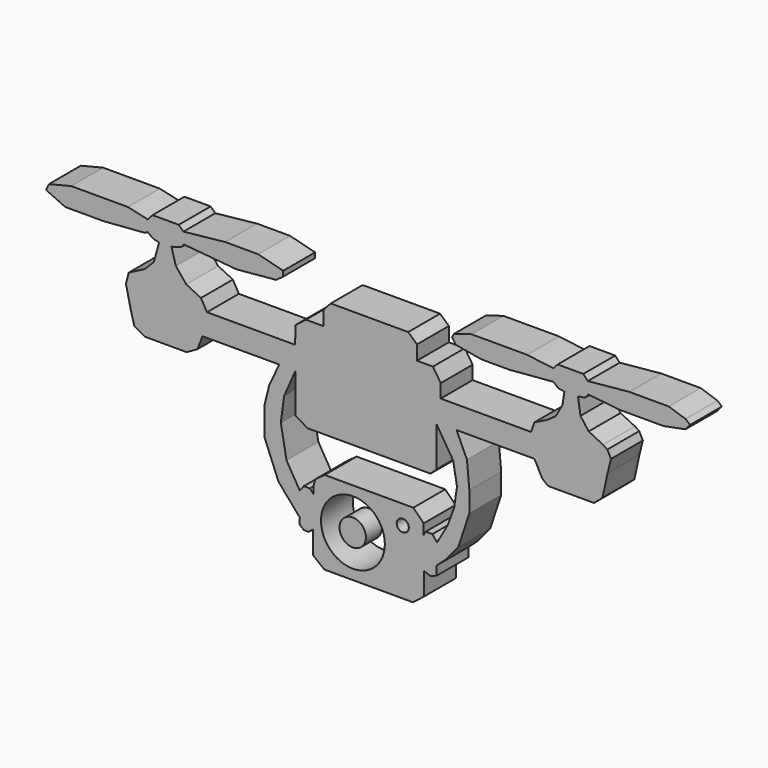
from build123d import *

# Parameters (mm, degrees)
F0_R     = 4.069971
F0_R_2   = 0.770086
F1_DEPTH = 5.08
F2_R     = 1.679723
F3_DEPTH = 2.54


with BuildPart() as f1:
    # F0 (on Front) → F1 (new body)
    with BuildSketch(Plane.XZ):
        Polygon((-9.318665, 22.670845), (-9.353687, 25.614712), (-20.578111, 25.614712), (-21.153722, 22.736656), (-11.368327, 22.736656), align=None)
        Polygon((-9.283642, 27.860334), (-9.353687, 25.614712), (-9.318665, 22.670845), (-9.318665, 17.684866), (-7.757322, 16.769072), (7.912902, 16.769072), (8.691694, 17.516764), (8.691694, 22.543664), (9.209785, 25.614712), (9.209785, 27.351562), (8.218166, 28.877882), (6.183073, 28.877882), (6.183073, 30.709466), (5.06377, 31.727012), (-4.806436, 31.727012), (-5.722228, 30.709466), (-5.722228, 28.877882), (-7.960832, 28.877882), align=None)
        Polygon((-21.153722, 22.736656), (-20.578111, 25.614712), (-21.340223, 26.965873), (-23.222685, 27.881665), (-24.545496, 29.50974), (-25.105147, 31.493958), (-23.884091, 31.838358), (-23.52795, 32.257117), (-16.81214, 31.646591), (-11.775281, 32.104485), (-10.859489, 32.765891), (-10.859489, 33.427294), (-14.064763, 34.241334), (-18.287582, 34.241334), (-23.578826, 33.681683), (-24.175683, 34.248885), (-27.521426, 34.248885), (-28.136475, 33.570868), (-26.377082, 33.172909), (-26.334074, 32.766288), (-28.136475, 32.148954), (-27.490808, 31.666695), (-26.682345, 31.443078), (-27.34375, 29.051844), (-28.492769, 27.881665), (-30.549023, 26.813241), (-30.905165, 25.439551), (-30.294636, 22.736656), (-29.83674, 21.064099), (-28.492769, 20.290306), (-23.168363, 20.290306), (-21.798119, 21.064099), align=None)
        Polygon((-10.744238, 19.428659), (-9.318665, 22.670845), (-11.368327, 22.736656), (-12.641548, 20.025223), (-13.22489, 17.684866), (-13.22489, 13.922821), (-11.470282, 9.566554), (-8.747616, 6.420361), (-8.747616, 9.445547), (-10.44172, 12.289221), (-11.167764, 16.282465), align=None)
        Polygon((-8.240691, 10.114433), (-8.747616, 9.445547), (-8.747616, 6.420361), (-8.816303, 5.67781), (-8.240691, 5.185759), (-7.593128, 5.185759), (-7.045039, 5.67781), (-6.981541, 9.574797), (-7.449226, 10.114433), align=None)
        Polygon((11.224424, 22.736656), (8.691694, 22.543664), (10.795082, 19.186644), (11.279112, 16.403474), (10.91609, 13.922821), (10.069037, 11.623681), (8.737955, 9.324539), (8.155205, 10.066222), (7.30082, 10.066222), (7.032725, 9.603148), (7.098865, 5.577749), (7.901572, 5.276848), (8.691694, 5.577749), (8.691694, 6.727319), (9.905946, 7.827047), (11.446381, 9.683122), (12.852208, 13.922821), (12.852208, 16.524481), (12.549689, 19.852184), align=None)
        Polygon((9.209785, 25.614712), (8.691694, 22.543664), (11.224424, 22.736656), (21.153722, 22.736656), (20.722013, 25.614712), align=None)
        Polygon((7.098865, 5.577749), (7.032725, 9.603148), (7.032725, 10.905899), (5.717888, 12.237), (-5.578488, 12.237), (-6.765687, 11.373583), (-6.981541, 10.618092), (-6.981541, 9.574797), (-7.045039, 5.67781), (-7.045039, 2.726923), (-5.620473, 1.607623), (5.674298, 1.607623), (7.098865, 2.726923), align=None)
        with Locations((-1.983154, 6.955266)):
            Circle(F0_R, mode=Mode.SUBTRACT)
        with Locations((4.369736, 9.79894)):
            Circle(F0_R_2, mode=Mode.SUBTRACT)
        Polygon((20.722013, 25.614712), (21.153722, 22.736656), (22.125067, 20.865917), (22.880556, 20.254329), (28.744599, 20.254329), (29.823871, 21.189697), (30.471433, 24.175683), (30.903142, 25.902517), (30.435458, 26.80191), (29.895823, 27.161669), (28.061062, 28.061062), (27.017767, 29.464114), (26.693985, 31.550705), (27.601909, 31.69159), (28.025085, 32.198269), (32.01839, 31.76656), (37.594628, 31.76656), (40.400732, 32.306198), (40.976346, 32.989737), (40.404701, 33.471123), (38.278166, 34.176935), (33.241566, 34.176935), (27.953135, 33.673275), (27.377523, 34.28486), (24.103733, 34.28486), (23.564097, 33.673275), (25.092266, 33.271004), (25.092266, 32.609597), (23.564097, 32.162294), (24.224728, 31.632844), (24.967151, 31.51473), (24.715319, 29.931799), (23.887878, 28.420819), (22.772631, 27.629353), (21.153724, 26.837887), align=None)
        Polygon((-28.492769, 31.943833), (-28.136475, 32.148954), (-26.334074, 32.766288), (-26.377082, 33.172909), (-28.136475, 33.570868), (-30.650778, 34.139581), (-37.875362, 34.139581), (-40.728143, 33.433209), (-41.080635, 32.664135), (-38.638525, 31.544834), (-33.70342, 31.544834), align=None)
        Polygon((17.98786, 31.69461), (23.564097, 32.162294), (25.092266, 32.609597), (25.092266, 33.271004), (23.564097, 33.673275), (20.218354, 34.104981), (15.757365, 34.104981), (13.131138, 34.104981), (10.900644, 33.421442), (10.648813, 32.953758), (11.152473, 32.270219), (14.426264, 31.69461), align=None)
    extrude(amount=-F1_DEPTH)


with BuildPart() as f3:
    # F2 (on Front) → F3 (new body)
    with BuildSketch(Plane.XZ):
        with Locations((-2.00727, 6.946239)):
            Circle(F2_R)
    extrude(amount=-F3_DEPTH)


solid = Compound([f1.part, f3.part])
